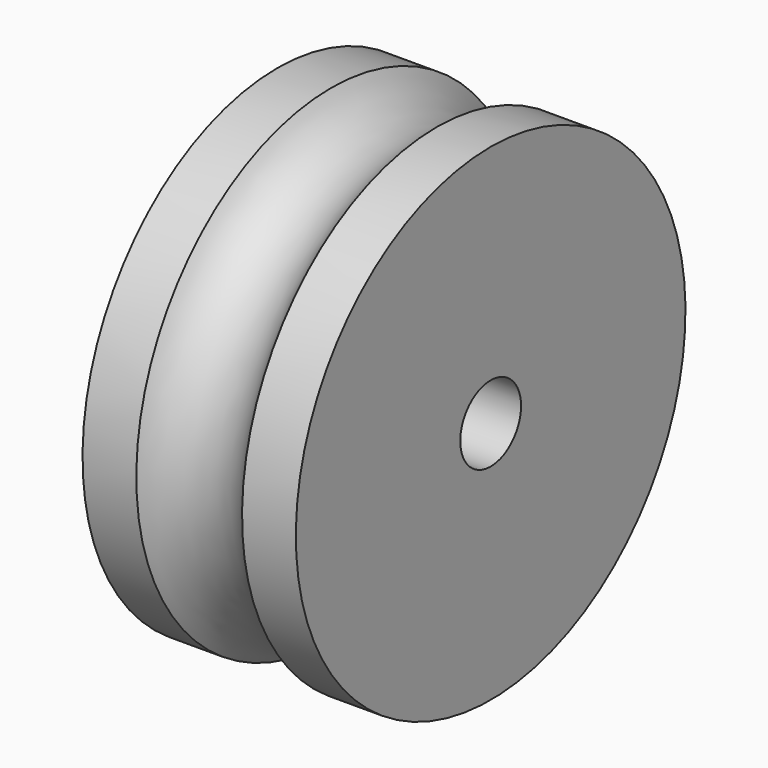
from build123d import *

# Parameters (mm, degrees)
F2_R     = 1.9812
F3_DEPTH = 11.1262
F4_T     = -2.3876


with BuildPart() as f1:
    # F0 (on Front) → F1 (revolve)
    with BuildSketch(Plane.XZ):
        with BuildLine():
            Line((-2.756924, 12.7), (-5.5626, 12.7))
            Line((-5.5626, 12.7), (-5.5626, 0))
            Line((-5.5626, 0), (5.5626, 0))
            Line((5.5626, 0), (5.5626, 12.7))
            Line((5.5626, 12.7), (2.756924, 12.7))
            ThreePointArc((2.756924, 12.7), (0, 11.0998), (-2.756924, 12.7))
        make_face()
    revolve(axis=Axis((0, 0, 0), (1, 0, 0)))

    # F2 (on face) → F3 (cut, through all)
    with BuildSketch(Plane.YZ.offset(5.5626)):
        Circle(F2_R)
    extrude(amount=-F3_DEPTH, mode=Mode.SUBTRACT)

    # F4
    f4_openings = [f1.faces().sort_by_distance(p)[0] for p in [
        (-5.5626, 0, -12.34079),
    ]]
    offset(amount=F4_T, openings=f4_openings)


solid = f1.part
